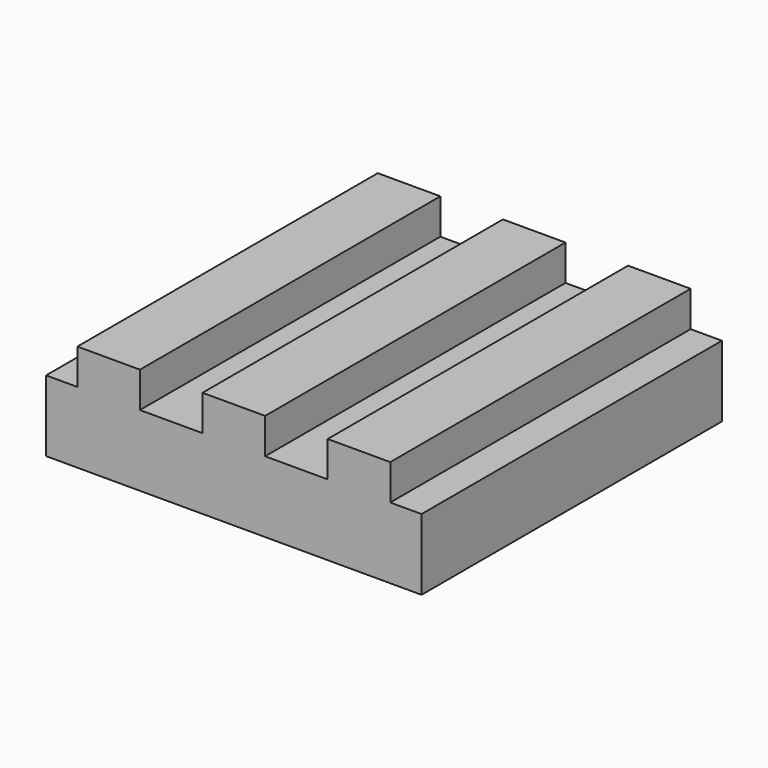
from build123d import *

# Parameters (mm, degrees)
F0_W      = 44
F0_H      = 44
F1_DEPTH  = 25
F0_W_2    = 264
F0_H_2    = 264
F4_DEPTH  = 50
F3_FACE_W = 44
F3_FACE_H = 25
F1_FACE_W = 44
F1_FACE_H = 25
F2_FACE_W = 44
F2_FACE_H = 25
F5_DEPTH  = 44
F6_DEPTH  = 22


with BuildPart() as f1:
    # F0 (on Top) → F1 (new body)
    with BuildSketch(Plane.XY):
        with Locations((-88, 0)):
            Rectangle(F0_W, F0_H)
    extrude(amount=F1_DEPTH)


with BuildPart() as f1b:
    # F0 (on Top) → F1, piece 2 (new body)
    with BuildSketch(Plane.XY):
        with Locations((-88, 88)):
            Rectangle(F0_W, F0_H)
    extrude(amount=F1_DEPTH)


with BuildPart() as f1c:
    # F0 (on Top) → F1, piece 3 (new body)
    with BuildSketch(Plane.XY):
        with Locations((0, 88)):
            Rectangle(F0_W, F0_H)
    extrude(amount=F1_DEPTH)


with BuildPart() as f1d:
    # F0 (on Top) → F1, piece 4 (new body)
    with BuildSketch(Plane.XY):
        Rectangle(F0_W, F0_H)
    extrude(amount=F1_DEPTH)


with BuildPart() as f2_1:
    # F2: instance of F1
    add(f1.part.mirror(Plane.YZ))


with BuildPart() as f2_2:
    # F2: instance of F1b
    add(f1b.part.mirror(Plane.YZ))


with BuildPart() as f3_1:
    # F3: instance of F1b
    add(f1b.part.mirror(Plane.XZ))


with BuildPart() as f3_2:
    # F3: instance of F1c
    add(f1c.part.mirror(Plane.XZ))


with BuildPart() as f3_3:
    # F3: instance of F2_2
    add(f2_2.part.mirror(Plane.XZ))


with BuildPart() as f4:
    # F0 (on Top) → F4 (new body)
    with BuildSketch(Plane.XY):
        Rectangle(F0_W_2, F0_H_2)
        with Locations((-88, 0)):
            Rectangle(F0_W, F0_H, mode=Mode.SUBTRACT)
        with Locations((-88, 88)):
            Rectangle(F0_W, F0_H, mode=Mode.SUBTRACT)
        Rectangle(F0_W, F0_H, mode=Mode.SUBTRACT)
        with Locations((0, 88)):
            Rectangle(F0_W, F0_H, mode=Mode.SUBTRACT)
        with Locations((-88, 0)):
            Rectangle(F0_W, F0_H)
        Rectangle(F0_W, F0_H)
        with Locations((-88, 88)):
            Rectangle(F0_W, F0_H)
        with Locations((0, 88)):
            Rectangle(F0_W, F0_H)
    extrude(amount=-F4_DEPTH)


with BuildPart() as f1_1:
    add(f1.part)

    add(f1b.part)  # F5 merges F1b

    add(f1c.part)  # F5 merges F1c

    add(f1d.part)  # F5 merges F1d

    add(f2_1.part)  # F5 merges F2_1

    add(f2_2.part)  # F5 merges F2_2

    add(f3_1.part)  # F5 merges F3_1

    add(f3_2.part)  # F5 merges F3_2

    add(f3_3.part)  # F5 merges F3_3

    add(f4.part)  # F5 merges F4
    # F3_face (on face) + F1_face (on face) + F2_face (on face) → F5 (join)
    with BuildSketch(Plane(origin=(-88, -66, 12.5), x_dir=(-1, 0, 0), z_dir=(0, 1, 0))):
        Rectangle(F3_FACE_W, F3_FACE_H)
        with Locations((-88, 0)):
            Rectangle(F3_FACE_W, F3_FACE_H)
        with Locations((-176, 0)):
            Rectangle(F3_FACE_W, F3_FACE_H)
    with BuildSketch(Plane(origin=(-88, 22, 12.5), x_dir=(-1, 0, 0), z_dir=(0, 1, 0))):
        Rectangle(F1_FACE_W, F1_FACE_H)
        with Locations((-88, 0)):
            Rectangle(F1_FACE_W, F1_FACE_H)
    with BuildSketch(Plane(origin=(88, 22, 12.5), x_dir=(-1, 0, 0), z_dir=(0, 1, 0))):
        Rectangle(F2_FACE_W, F2_FACE_H)
    extrude(amount=F5_DEPTH)

    # F6 (add, symmetric): faces of the model
    f6_faces = [f1_1.faces().sort_by_distance(p)[0] for p in [
        (-88, -110, 12.5),
        (0, -110, 12.5),
        (88, -110, 12.5),
        (-88, 110, 12.5),
        (0, 110, 12.5),
        (88, 110, 12.5),
    ]]
    extrude(f6_faces, amount=F6_DEPTH, both=True, dir=(0, -1, 0))


solid = f1_1.part
